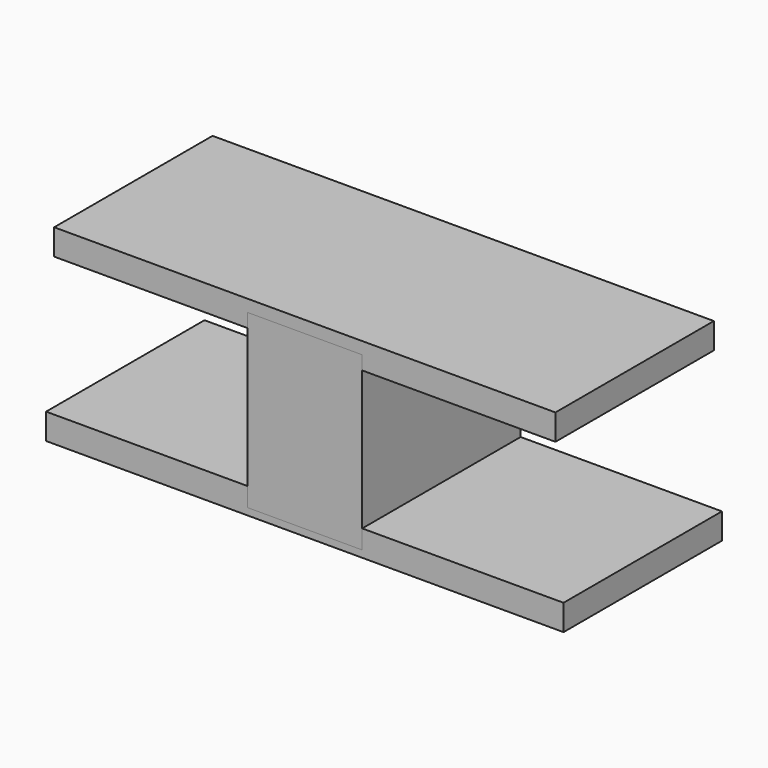
from build123d import *

# Parameters (mm, degrees)
F0_W     = 66.386222
F0_H     = 3.319323
F0_W_2   = 64.311772
F0_H_2   = 3.319309
F1_DEPTH = 25.4
F2_W     = 14.731928
F2_H     = 22.041164
F3_DEPTH = 25.4


with BuildPart() as f1:
    # F0 (on Front) → F1 (new body)
    with BuildSketch(Plane.XZ):
        with Locations((0, 20.33081)):
            Rectangle(F0_W, F0_H)
        with Locations((0, 41.491441)):
            Rectangle(F0_W_2, F0_H_2)
    extrude(amount=F1_DEPTH)


with BuildPart() as f3:
    # F2 (on Front) → F3 (new body)
    with BuildSketch(Plane.XZ):
        with Locations((0, 30.576844)):
            Rectangle(F2_W, F2_H)
    extrude(amount=F3_DEPTH)


solid = Compound([f1.part, f3.part])
